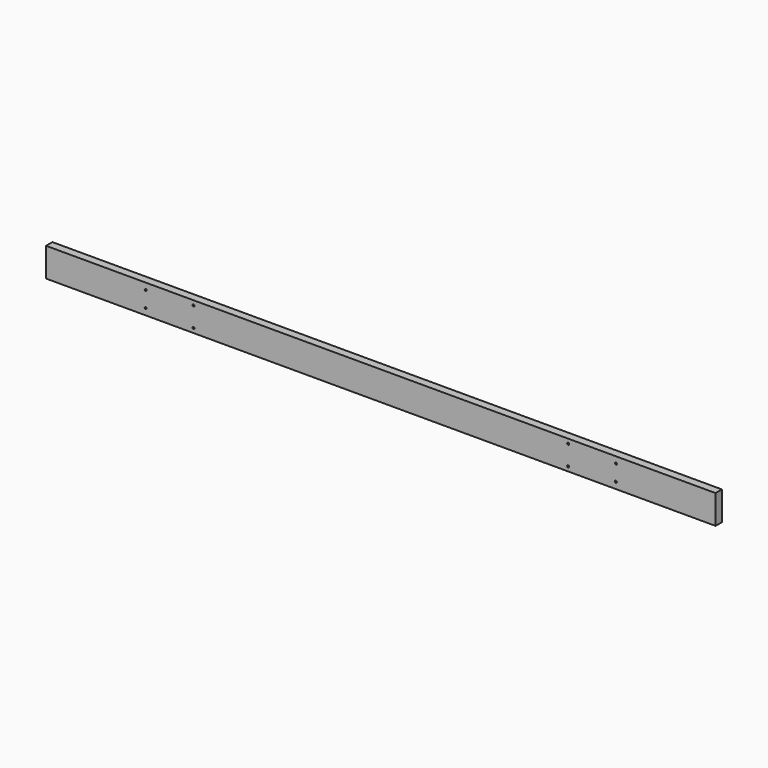
from build123d import *

# Parameters (mm, degrees)
F0_W     = 4267.2
F0_H     = 184.15
F1_DEPTH = 50.8
F2_R     = 6.35
F3_DEPTH = 50.8
F4_R     = 6.35
F5_DEPTH = 50.8


with BuildPart() as f1:
    # F0 (on Front) → F1 (new body)
    with BuildSketch(Plane.XZ):
        Rectangle(F0_W, F0_H)
    extrude(amount=F1_DEPTH)

    # F2 (on face) → F3 (cut)
    with BuildSketch(Plane.XZ.offset(50.8)):
        with Locations((1498.6, 50.8)):
            Circle(F2_R)
        with Locations((1498.6, -50.8)):
            Circle(F2_R)
        with Locations((-1498.6, 50.8)):
            Circle(F2_R)
        with Locations((-1498.6, -50.8)):
            Circle(F2_R)
    extrude(amount=-F3_DEPTH, mode=Mode.SUBTRACT)

    # F4 (on Front) → F5 (cut, symmetric)
    with BuildSketch(Plane.XZ):
        with Locations((-1193.8, 63.5)):
            Circle(F4_R)
        with Locations((-1193.8, -63.5)):
            Circle(F4_R)
        with Locations((1193.8, 63.5)):
            Circle(F4_R)
        with Locations((1193.8, -63.5)):
            Circle(F4_R)
    extrude(amount=F5_DEPTH, both=True, mode=Mode.SUBTRACT)


solid = f1.part
